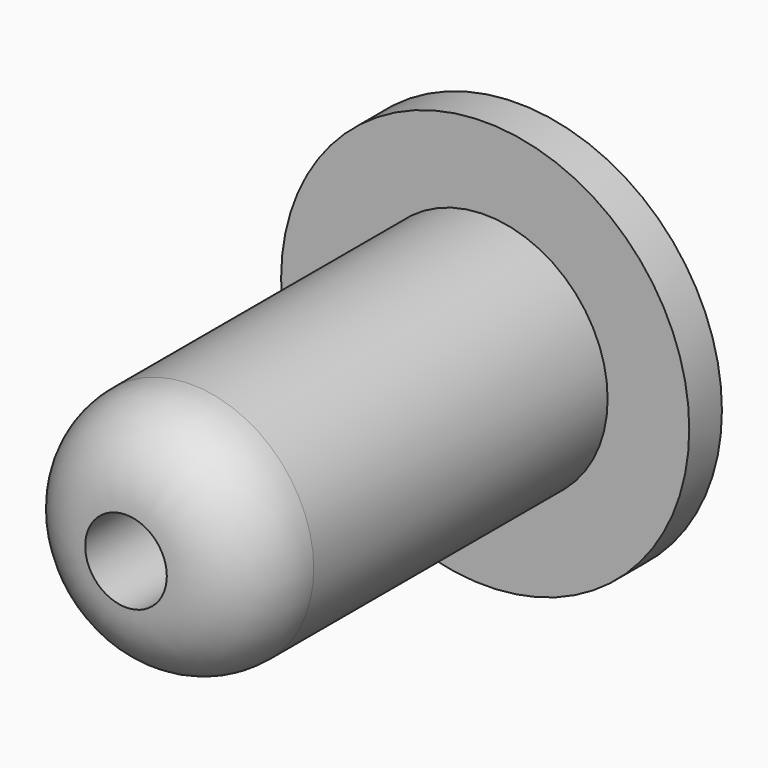
from build123d import *

# Parameters (mm, degrees)
F0_R     = 6
F1_DEPTH = 24
F0_R_2   = 9.9999997765
F2_DEPTH = 2
F3_R     = 4
F4_DEPTH = 22


with BuildPart() as f1:
    # F0 (on Front) → F1 (new body)
    with BuildSketch(Plane.XZ):
        Circle(F0_R)
    extrude(amount=F1_DEPTH)

    # F0 (on Front) → F2 (join)
    with BuildSketch(Plane.XZ):
        Circle(F0_R_2)
        Circle(F0_R, mode=Mode.SUBTRACT)
    extrude(amount=F2_DEPTH)

    # F3
    f3_edges = [f1.edges().sort_by_distance(p)[0] for p in [
        (-6, -24, 0),
    ]]
    fillet(f3_edges, radius=F3_R)

    # F4 (cut): a face of the model
    f4_faces = [f1.faces().sort_by_distance(p)[0] for p in [
        (0, -24, 0),
    ]]
    extrude(f4_faces, amount=-F4_DEPTH, mode=Mode.SUBTRACT)


solid = f1.part
